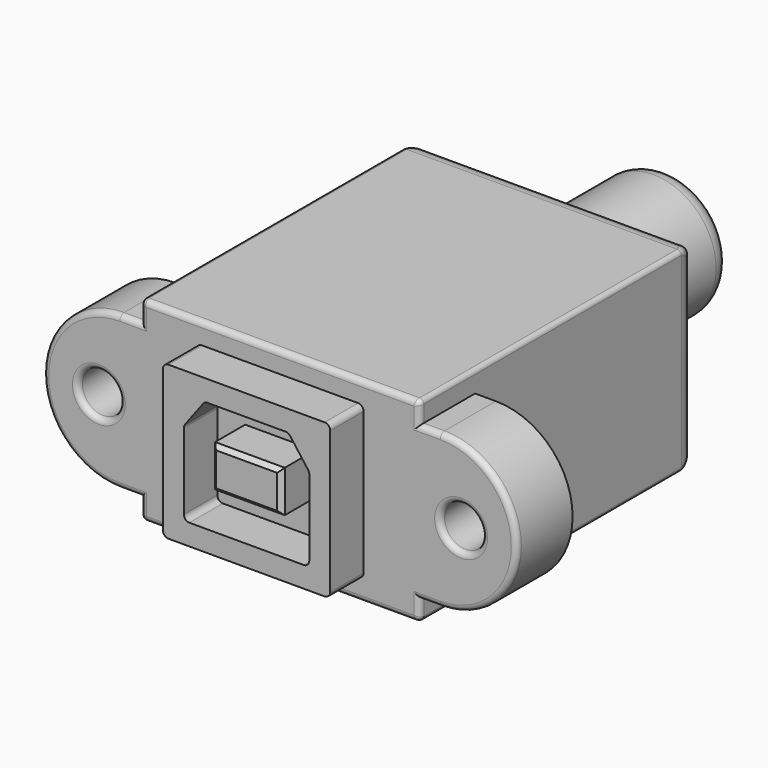
from build123d import *

# Parameters (mm, degrees)
SKETCH_R     = 1.5
PAD_DEPTH    = 5
FILLET_R     = 0.4
SKETCH001_W  = 20
SKETCH001_H  = 14
PAD001_DEPTH = 20
FILLET001_R  = 0.3
FILLET002_R  = 1.5
SKETCH005_R  = 4.5
PAD005_DEPTH = 10
FILLET005_R  = 1.5
SKETCH003_W  = 12
SKETCH003_H  = 11
PAD003_DEPTH = 3
FILLET004_R  = 0.4
SKETCH004_W  = 5
SKETCH004_H  = 3
PAD004_DEPTH = 3
CHAMFER_SIZE = 0.3


with BuildPart() as body:
    # Sketch → Pad (new body)
    with BuildSketch(Plane.XZ):
        with BuildLine():
            ThreePointArc((-11.5, 5.5), (-17, 0), (-11.5, -5.5))
            Line((-11.5, -5.5), (-10, -5.5))
            Line((-10, -7), (-10, -5.5))
            Line((10, -7), (-10, -7))
            Line((10, -5.5), (10, -7))
            Line((11.5, -5.5), (10, -5.5))
            ThreePointArc((11.5, -5.5), (17, 0), (11.5, 5.5))
            Line((11.5, 5.5), (10, 5.5))
            Line((10, 7), (10, 5.5))
            Line((-10, 7), (10, 7))
            Line((-10, 5.5), (-10, 7))
            Line((-11.5, 5.5), (-10, 5.5))
        make_face()
        with Locations((13, 0)):
            Circle(SKETCH_R, mode=Mode.SUBTRACT)
        with Locations((-13, 0)):
            Circle(SKETCH_R, mode=Mode.SUBTRACT)
    extrude(amount=PAD_DEPTH)

    # Fillet
    fillet_edges = [body.edges().sort_by_distance(p)[0] for p in [
        (17, -5, 0),
        (10.75, -5, 5.5),
        (0, -5, 7),
        (-17, -5, 0),
        (-10.75, -5, 5.5),
        (-10, -5, 6.25),
        (10, -5, 6.25),
        (10, -5, -6.25),
        (0, -5, -7),
        (10.75, -5, -5.5),
        (-10, -5, -6.25),
        (-10.75, -5, -5.5),
        (-14.5, -5, 0),
        (11.5, -5, 0),
    ]]
    fillet(fillet_edges, radius=FILLET_R)

    # Sketch001 (on Face4 of Fillet) → Pad001 (join)
    with BuildSketch(Plane(origin=(0, 0, 0), x_dir=(1, 0, 0), z_dir=(0, 1, 0))):
        Rectangle(SKETCH001_W, SKETCH001_H)
    extrude(amount=PAD001_DEPTH)

    # Fillet001
    fillet001_edges = [body.edges().sort_by_distance(p)[0] for p in [
        (10, 10, 7),
        (-10, 10, 7),
        (-10, 10, -7),
        (10, 10, -7),
    ]]
    fillet(fillet001_edges, radius=FILLET001_R)

    # Fillet002
    fillet002_edges = [body.edges().sort_by_distance(p)[0] for p in [
        (0, 20, 7),
        (10, 20, 0),
        (0, 20, -7),
        (-10, 20, 0),
    ]]
    fillet(fillet002_edges, radius=FILLET002_R)

    # Sketch005 (on Face13 of Fillet002) → Pad005 (join)
    with BuildSketch(Plane(origin=(0, 20, 0), x_dir=(1, 0, 0), z_dir=(0, 1, 0))):
        Circle(SKETCH005_R)
    extrude(amount=PAD005_DEPTH)

    # Fillet005
    fillet005_edges = [body.edges().sort_by_distance(p)[0] for p in [
        (-4.5, 30, 0),
    ]]
    fillet(fillet005_edges, radius=FILLET005_R)


with BuildPart() as body001:
    # Sketch003 → Pad003 (new body)
    with BuildSketch(Plane.XZ.offset(5)):
        Rectangle(SKETCH003_W, SKETCH003_H)
        Polygon((-4.5, -4), (-4.5, 2), (-3, 4), (3, 4), (4.5, 2), (4.5, -4), align=None, mode=Mode.SUBTRACT)
    extrude(amount=PAD003_DEPTH)

    # Fillet004
    fillet004_edges = [body001.edges().sort_by_distance(p)[0] for p in [
        (6, -6.5, 5.5),
        (-6, -6.5, 5.5),
        (-6, -6.5, -5.5),
        (6, -6.5, -5.5),
        (-4.5, -6.5, -4),
        (4.5, -6.5, -4),
        (-4.5, -6.5, 2),
        (-3, -6.5, 4),
        (3, -6.5, 4),
        (4.5, -6.5, 2),
    ]]
    fillet(fillet004_edges, radius=FILLET004_R)


with BuildPart() as body002:
    # Sketch004 → Pad004 (new body)
    with BuildSketch(Plane.XZ.offset(5)):
        Rectangle(SKETCH004_W, SKETCH004_H)
    extrude(amount=PAD004_DEPTH)

    # Chamfer
    chamfer_edges = [body002.edges().sort_by_distance(p)[0] for p in [
        (0, -8, 1.5),
        (2.5, -8, 0),
        (0, -8, -1.5),
        (-2.5, -8, 0),
    ]]
    chamfer(chamfer_edges, length=CHAMFER_SIZE)


solid = Compound([body.part, body001.part, body002.part])
